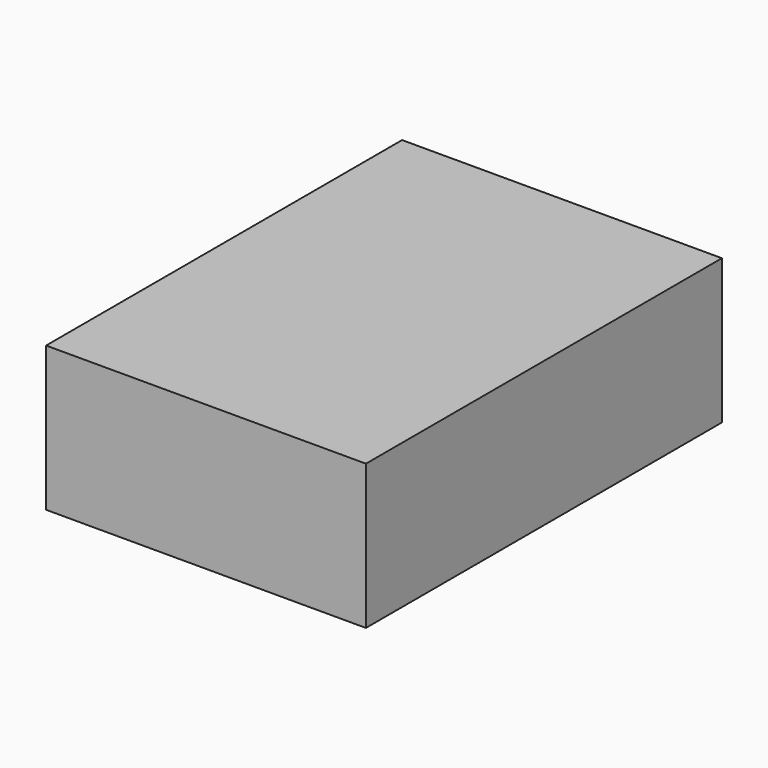
from build123d import *

# Parameters (mm, degrees)
F0_W     = 1750
F0_H     = 600
F1_DEPTH = 4000
F2_W     = 5750
F2_H     = 8000
F3_DEPTH = 2600
F5_W     = 1750
F5_H     = 4000
F6_DEPTH = 600


with BuildPart() as f1:
    # F0 (on Front) → F1 (new body)
    with BuildSketch(Plane.XZ):
        with Locations((875, 300)):
            Rectangle(F0_W, F0_H)
    extrude(amount=F1_DEPTH)


with BuildPart() as f3:
    # F2 (on Top) → F3 (new body)
    with BuildSketch(Plane.XY):
        with Locations((875, -2000)):
            Rectangle(F2_W, F2_H)
    extrude(amount=F3_DEPTH)

    # F4: cut F1
    add(f1.part, mode=Mode.SUBTRACT)


with BuildPart() as f6:
    # F5 (on face) → F6 (new body, through all)
    with BuildSketch(Plane(origin=(0, 0, 0), x_dir=(1, 0, 0), z_dir=(0, 0, -1))):
        with Locations((875, 2000)):
            Rectangle(F5_W, F5_H)
    extrude(amount=-F6_DEPTH)


solid = Compound([f3.part, f6.part])
